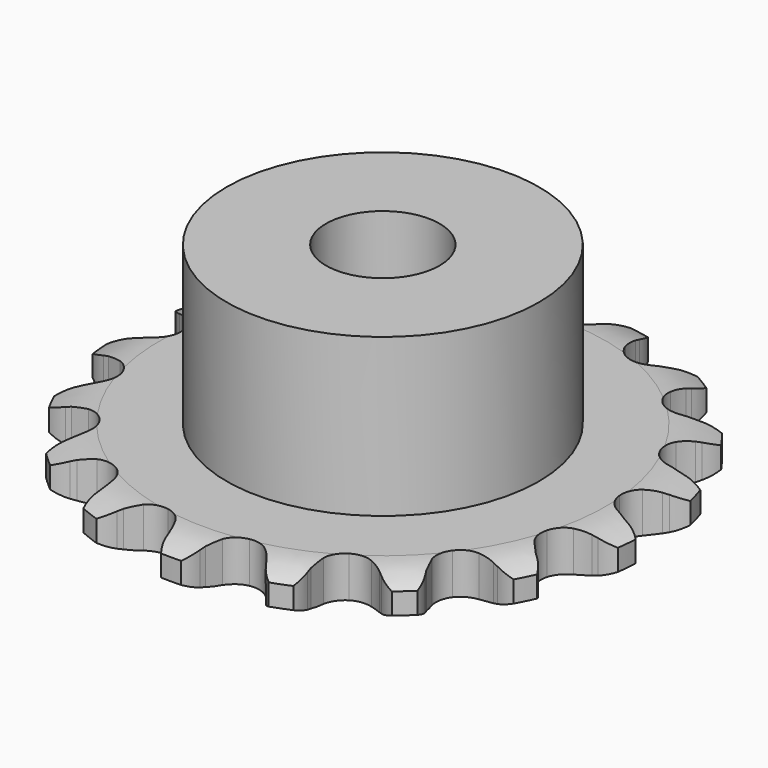
from build123d import *

# Parameters (mm, degrees)
PAD_DEPTH         = 2.9
SKETCH001_R       = 11
PAD001_DEPTH      = 14
SKETCH002_R       = 4
POCKET_DEPTH      = 0.001
POCKET_DEPTH_BACK = -14.001


with BuildPart() as part:
    # Sprocket → Pad (new body)
    with BuildSketch(Plane.XY):
        with BuildLine():
            ThreePointArc((-3.543173, 18.9543), (-2.659955, 18.386729), (-2.058172, 17.526458))
            Line((-2.058172, 17.526458), (-1.901625, 17.171913))
            ThreePointArc((-1.901625, 17.171913), (-1.644839, 16.678633), (-1.327035, 16.222273))
            ThreePointArc((-1.327035, 16.222273), (-0.736579, 15.750868), (0, 15.582607))
            ThreePointArc((0, 15.582607), (0.736579, 15.750868), (1.327035, 16.222273))
            ThreePointArc((1.327035, 16.222273), (1.644839, 16.678633), (1.901625, 17.171913))
            Line((1.901625, 17.171913), (2.058172, 17.526458))
            ThreePointArc((2.058172, 17.526458), (2.659955, 18.386729), (3.543173, 18.9543))
            ThreePointArc((3.543173, 18.9543), (4.161718, 18.106001), (4.412099, 17.086433))
            Line((4.412099, 17.086433), (4.429998, 16.699278))
            ThreePointArc((4.429998, 16.699278), (4.49125, 16.146547), (4.622738, 15.606199))
            ThreePointArc((4.622738, 15.606199), (5.00303, 14.95333), (5.629087, 14.530348))
            ThreePointArc((5.629087, 14.530348), (6.376709, 14.421164), (7.097584, 14.647439))
            Line((7.097584, 14.647439), (7.976423, 15.325386))
            ThreePointArc((7.976423, 15.325386), (8.110386, 15.465475), (8.250475, 15.599438))
            ThreePointArc((8.250475, 15.599438), (9.122387, 16.184228), (10.150993, 16.394417))
            ThreePointArc((10.150993, 16.394417), (10.421329, 15.379957), (10.286491, 14.33879))
            Line((10.286491, 14.33879), (10.163325, 13.971313))
            ThreePointArc((10.163325, 13.971313), (10.020771, 13.43378), (9.948184, 12.882422))
            ThreePointArc((9.948184, 12.882422), (10.066953, 12.136262), (10.497934, 11.515685))
            ThreePointArc((10.497934, 11.515685), (11.15563, 11.143802), (11.909565, 11.094387))
            Line((11.909565, 11.094387), (12.973961, 11.409081))
            ThreePointArc((12.973961, 11.409081), (13.149483, 11.491317), (13.328506, 11.565628))
            ThreePointArc((13.328506, 11.565628), (14.35279, 11.795957), (15.387866, 11.620377))
            ThreePointArc((15.387866, 11.620377), (15.273481, 10.576765), (14.771636, 9.654615))
            Line((14.771636, 9.654615), (14.524039, 9.356445))
            ThreePointArc((14.524039, 9.356445), (14.196932, 8.906706), (13.930073, 8.418802))
            ThreePointArc((13.930073, 8.418802), (13.771278, 7.680125), (13.948978, 6.945766))
            ThreePointArc((13.948978, 6.945766), (14.427921, 6.361408), (15.113094, 6.042976))
            Line((15.113094, 6.042976), (16.219293, 5.951916))
            ThreePointArc((16.219293, 5.951916), (16.412671, 5.965193), (16.606448, 5.969815))
            ThreePointArc((16.606448, 5.969815), (17.644769, 5.814576), (18.546522, 5.27694))
            ThreePointArc((18.546522, 5.27694), (18.062865, 4.345122), (17.261789, 3.66653))
            Line((17.261789, 3.66653), (16.923201, 3.477937))
            ThreePointArc((16.923201, 3.477937), (16.455718, 3.176733), (16.030628, 2.818177))
            ThreePointArc((16.030628, 2.818177), (15.615715, 2.186744), (15.516134, 1.437782))
            ThreePointArc((15.516134, 1.437782), (15.751641, 0.71987), (16.275515, 0.175428))
            Line((16.275515, 0.175428), (17.274121, -0.309089))
            ThreePointArc((17.274121, -0.309089), (17.459236, -0.366564), (17.641598, -0.432254))
            ThreePointArc((17.641598, -0.432254), (18.553725, -0.952095), (19.200367, -1.779176))
            ThreePointArc((19.200367, -1.779176), (18.412759, -2.473354), (17.420642, -2.816741))
            Line((17.420642, -2.816741), (17.036791, -2.870286))
            ThreePointArc((17.036791, -2.870286), (16.492068, -2.982276), (15.966158, -3.163059))
            ThreePointArc((15.966158, -3.163059), (15.351163, -3.601969), (14.987751, -4.264383))
            ThreePointArc((14.987751, -4.264383), (14.948015, -5.01889), (15.239838, -5.715812))
            Line((15.239838, -5.715812), (15.995982, -6.528349))
            ThreePointArc((15.995982, -6.528349), (16.147834, -6.648814), (16.294152, -6.775945))
            ThreePointArc((16.294152, -6.775945), (16.956897, -7.590181), (17.261097, -8.595005))
            ThreePointArc((17.261097, -8.595005), (16.275908, -8.95779), (15.226741, -8.919594))
            Line((15.226741, -8.919594), (14.849467, -8.83086))
            ThreePointArc((14.849467, -8.83086), (14.301074, -8.738512), (13.745371, -8.717107))
            ThreePointArc((13.745371, -8.717107), (13.013352, -8.904216), (12.435189, -9.390619))
            ThreePointArc((12.435189, -9.390619), (12.125576, -10.079822), (12.145936, -10.8351))
            Line((12.145936, -10.8351), (12.557498, -11.865919))
            ThreePointArc((12.557498, -11.865919), (12.655578, -12.033105), (12.74609, -12.204507))
            ThreePointArc((12.74609, -12.204507), (13.069946, -13.20317), (12.99062, -14.250031))
            ThreePointArc((12.99062, -14.250031), (11.940905, -14.232426), (10.976384, -13.817807))
            Line((10.976384, -13.817807), (10.656641, -13.598778))
            ThreePointArc((10.656641, -13.598778), (10.178639, -13.314563), (9.668194, -13.09386))
            ThreePointArc((9.668194, -13.09386), (8.918016, -13.003899), (8.203185, -13.248599))
            ThreePointArc((8.203185, -13.248599), (7.665512, -13.779417), (7.411658, -14.491048))
            Line((7.411658, -14.491048), (7.423053, -15.600931))
            ThreePointArc((7.423053, -15.600931), (7.454116, -15.792259), (7.476598, -15.984783))
            ThreePointArc((7.476598, -15.984783), (7.417826, -17.032998), (6.965687, -17.980511))
            ThreePointArc((6.965687, -17.980511), (5.993217, -17.584895), (5.243606, -16.849849))
            Line((5.243606, -16.849849), (5.024577, -16.530106))
            ThreePointArc((5.024577, -16.530106), (4.681524, -16.092409), (4.285275, -15.702216))
            ThreePointArc((4.285275, -15.702216), (3.618252, -15.347334), (2.863297, -15.317283))
            ThreePointArc((2.863297, -15.317283), (2.170177, -15.618026), (1.676395, -16.1899))
            Line((1.676395, -16.1899), (1.286085, -17.228951))
            ThreePointArc((1.286085, -17.228951), (1.245935, -17.41858), (1.197351, -17.606225))
            ThreePointArc((1.197351, -17.606225), (0.763888, -18.562426), (0, -19.282624))
            ThreePointArc((0, -19.282624), (-0.763888, -18.562426), (-1.197351, -17.606225))
            Line((-1.197351, -17.606225), (-1.286085, -17.228951))
            ThreePointArc((-1.286085, -17.228951), (-1.447858, -16.696886), (-1.676395, -16.1899))
            ThreePointArc((-1.676395, -16.1899), (-2.170177, -15.618026), (-2.863297, -15.317283))
            ThreePointArc((-2.863297, -15.317283), (-3.618252, -15.347334), (-4.285275, -15.702216))
            Line((-4.285275, -15.702216), (-5.024577, -16.530106))
            ThreePointArc((-5.024577, -16.530106), (-5.130517, -16.692426), (-5.243606, -16.849849))
            ThreePointArc((-5.243606, -16.849849), (-5.993217, -17.584895), (-6.965687, -17.980511))
            ThreePointArc((-6.965687, -17.980511), (-7.417826, -17.032998), (-7.476598, -15.984783))
            Line((-7.476598, -15.984783), (-7.423053, -15.600931))
            ThreePointArc((-7.423053, -15.600931), (-7.381698, -15.046356), (-7.411658, -14.491048))
            ThreePointArc((-7.411658, -14.491048), (-7.665512, -13.779417), (-8.203185, -13.248599))
            ThreePointArc((-8.203185, -13.248599), (-8.918016, -13.003899), (-9.668194, -13.09386))
            Line((-9.668194, -13.09386), (-10.656641, -13.598778))
            ThreePointArc((-10.656641, -13.598778), (-10.814065, -13.711867), (-10.976384, -13.817807))
            ThreePointArc((-10.976384, -13.817807), (-11.940905, -14.232426), (-12.99062, -14.250031))
            ThreePointArc((-12.99062, -14.250031), (-13.069946, -13.20317), (-12.74609, -12.204507))
            Line((-12.74609, -12.204507), (-12.557498, -11.865919))
            ThreePointArc((-12.557498, -11.865919), (-12.318599, -11.363732), (-12.145936, -10.8351))
            ThreePointArc((-12.145936, -10.8351), (-12.125576, -10.079822), (-12.435189, -9.390619))
            ThreePointArc((-12.435189, -9.390619), (-13.013352, -8.904216), (-13.745371, -8.717107))
            Line((-13.745371, -8.717107), (-14.849467, -8.83086))
            ThreePointArc((-14.849467, -8.83086), (-15.037112, -8.879444), (-15.226741, -8.919594))
            ThreePointArc((-15.226741, -8.919594), (-16.275908, -8.95779), (-17.261097, -8.595005))
            ThreePointArc((-17.261097, -8.595005), (-16.956897, -7.590181), (-16.294152, -6.775945))
            Line((-16.294152, -6.775945), (-15.995982, -6.528349))
            ThreePointArc((-15.995982, -6.528349), (-15.591805, -6.146373), (-15.239838, -5.715812))
            ThreePointArc((-15.239838, -5.715812), (-14.948015, -5.01889), (-14.987751, -4.264383))
            ThreePointArc((-14.987751, -4.264383), (-15.351163, -3.601969), (-15.966158, -3.163059))
            Line((-15.966158, -3.163059), (-17.036791, -2.870286))
            ThreePointArc((-17.036791, -2.870286), (-17.229315, -2.847804), (-17.420642, -2.816741))
            ThreePointArc((-17.420642, -2.816741), (-18.412759, -2.473354), (-19.200367, -1.779176))
            ThreePointArc((-19.200367, -1.779176), (-18.553725, -0.952095), (-17.641598, -0.432254))
            Line((-17.641598, -0.432254), (-17.274121, -0.309089))
            ThreePointArc((-17.274121, -0.309089), (-16.759251, -0.098913), (-16.275515, 0.175428))
            ThreePointArc((-16.275515, 0.175428), (-15.751641, 0.71987), (-15.516134, 1.437782))
            ThreePointArc((-15.516134, 1.437782), (-15.615715, 2.186744), (-16.030628, 2.818177))
            Line((-16.030628, 2.818177), (-16.923201, 3.477937))
            ThreePointArc((-16.923201, 3.477937), (-17.094603, 3.568449), (-17.261789, 3.66653))
            ThreePointArc((-17.261789, 3.66653), (-18.062865, 4.345122), (-18.546522, 5.27694))
            ThreePointArc((-18.546522, 5.27694), (-17.644769, 5.814576), (-16.606448, 5.969815))
            Line((-16.606448, 5.969815), (-16.219293, 5.951916))
            ThreePointArc((-16.219293, 5.951916), (-15.663268, 5.961907), (-15.113094, 6.042976))
            ThreePointArc((-15.113094, 6.042976), (-14.427921, 6.361408), (-13.948978, 6.945766))
            ThreePointArc((-13.948978, 6.945766), (-13.771278, 7.680125), (-13.930073, 8.418802))
            Line((-13.930073, 8.418802), (-14.524039, 9.356445))
            ThreePointArc((-14.524039, 9.356445), (-14.65117, 9.502762), (-14.771636, 9.654615))
            ThreePointArc((-14.771636, 9.654615), (-15.273481, 10.576765), (-15.387866, 11.620377))
            ThreePointArc((-15.387866, 11.620377), (-14.35279, 11.795957), (-13.328506, 11.565628))
            Line((-13.328506, 11.565628), (-12.973961, 11.409081))
            ThreePointArc((-12.973961, 11.409081), (-12.451873, 11.217537), (-11.909565, 11.094387))
            ThreePointArc((-11.909565, 11.094387), (-11.15563, 11.143802), (-10.497934, 11.515685))
            ThreePointArc((-10.497934, 11.515685), (-10.066953, 12.136262), (-9.948184, 12.882422))
            Line((-9.948184, 12.882422), (-10.163325, 13.971313))
            ThreePointArc((-10.163325, 13.971313), (-10.229016, 14.153675), (-10.286491, 14.33879))
            ThreePointArc((-10.286491, 14.33879), (-10.421329, 15.379957), (-10.150993, 16.394417))
            ThreePointArc((-10.150993, 16.394417), (-9.122387, 16.184228), (-8.250475, 15.599438))
            Line((-8.250475, 15.599438), (-7.976423, 15.325386))
            ThreePointArc((-7.976423, 15.325386), (-7.558784, 14.958178), (-7.097584, 14.647439))
            ThreePointArc((-7.097584, 14.647439), (-6.376709, 14.421164), (-5.629087, 14.530348))
            ThreePointArc((-5.629087, 14.530348), (-5.00303, 14.95333), (-4.622738, 15.606199))
            Line((-4.622738, 15.606199), (-4.429998, 16.699278))
            ThreePointArc((-4.429998, 16.699278), (-4.425376, 16.893056), (-4.412099, 17.086433))
            ThreePointArc((-4.412099, 17.086433), (-4.161718, 18.106001), (-3.543173, 18.9543))
        make_face()
    extrude(amount=PAD_DEPTH)

    # Sketch → Groove (revolve, cut)
    with BuildSketch(Plane.XZ):
        with BuildLine():
            Line((15.739674, 0), (18.65, 0))
            Line((21.560326, 0), (18.65, 0))
            Line((21.560326, 2.9), (21.560326, 0))
            Line((18.65, 2.9), (21.560326, 2.9))
            Line((15.739674, 2.9), (18.65, 2.9))
            ThreePointArc((18.65, 2.2), (17.236337, 2.72254), (15.739674, 2.9))
            Line((18.65, 0.7), (18.65, 2.2))
            ThreePointArc((15.739674, 0), (17.236337, 0.17746), (18.65, 0.7))
        make_face()
    revolve(axis=Axis((0, 0, 0), (0, 0, 1)), mode=Mode.SUBTRACT)

    # Sketch001 → Pad001 (join)
    with BuildSketch(Plane.XY):
        Circle(SKETCH001_R)
    extrude(amount=PAD001_DEPTH)

    # Sketch002 → Pocket (cut, two sides)
    with BuildSketch(Plane.XY) as pocket_sk:
        Circle(SKETCH002_R)
    extrude(amount=-POCKET_DEPTH, mode=Mode.SUBTRACT)
    extrude(pocket_sk.sketch, amount=-POCKET_DEPTH_BACK, mode=Mode.SUBTRACT)


solid = part.part
